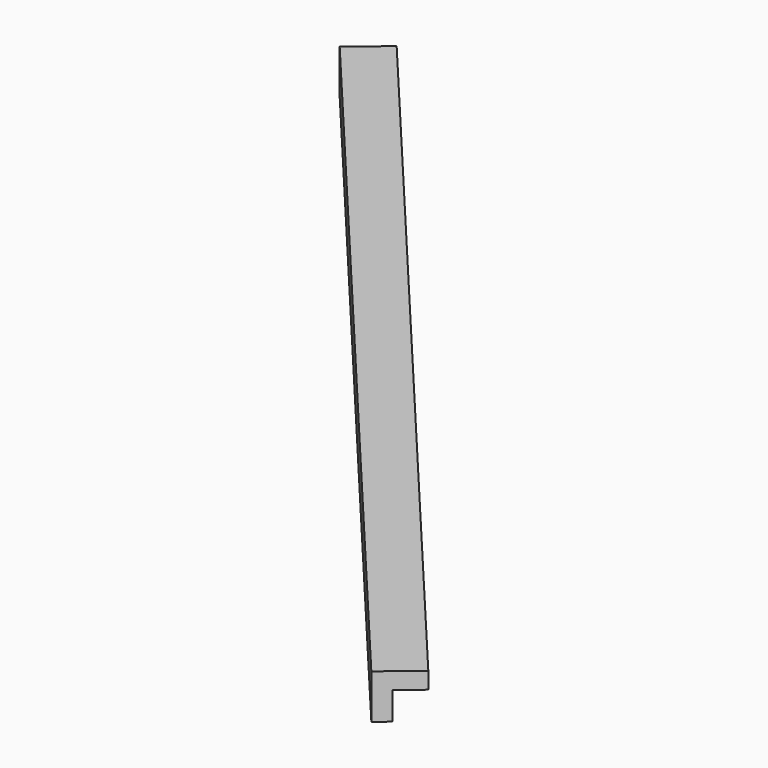
from build123d import *

# Parameters (mm, degrees)
BOX159_W               = 0.8
BOX159_H               = 19
BOX159_DEPTH           = 0.8
BOX160_W               = 0.8
BOX160_H               = 19
BOX160_DEPTH           = 0.8
CUT083_PLACEMENT_ANGLE = 220


with BuildPart() as cubo159:
    # Box159 → Box159 (new body)
    with BuildSketch(Plane.XY):
        with Locations((0.4, 9.5)):
            Rectangle(BOX159_W, BOX159_H)
    extrude(amount=BOX159_DEPTH)


with BuildPart() as obj1:
    # Box160 → Box160 (new body)
    with BuildSketch(Plane(origin=(0.3, 0, 0.3), x_dir=(1, 0, 0), z_dir=(0, 0, 1))):
        with Locations((0.4, 9.5)):
            Rectangle(BOX160_W, BOX160_H)
    extrude(amount=BOX160_DEPTH)

    # Cut083: cut Cubo159
    add(cubo159.part, mode=Mode.SUBTRACT)


with BuildPart() as obj1_1:
    # Cut083 placement: moved
    add(obj1.part.moved(Location((-218.3, 82.4, -1.45))).rotate(Axis((-218.3, 82.4, -1.45), (0, 0, 1)), CUT083_PLACEMENT_ANGLE))


solid = obj1_1.part
